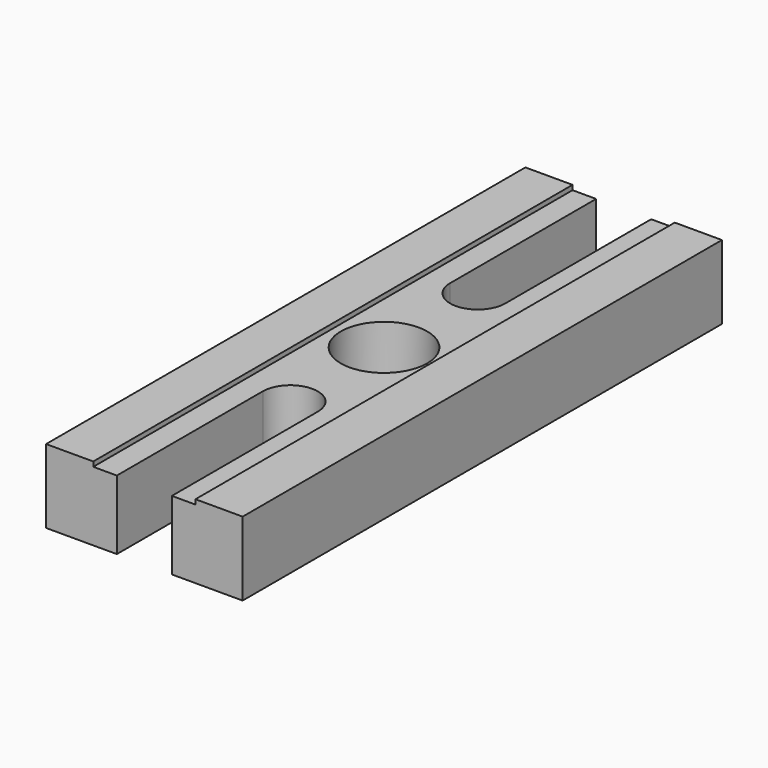
from build123d import *

# Parameters (mm, degrees)
F0_R     = 5.5
F1_DEPTH = 9.4
F0_R_2   = 3
F2_DEPTH = 2.1
F3_R     = 5.5
F4_DEPTH = 0.6


with BuildPart() as f1:
    # F0 (on Top) → F1 (new body)
    with BuildSketch(Plane.XY):
        with BuildLine():
            Line((3.5, -38.1), (12.5, -38.1))
            Line((12.5, -38.1), (12.5, 38.1))
            Line((12.5, 38.1), (3.5, 38.1))
            Line((3.5, 38.1), (3.5, 14.9))
            ThreePointArc((3.5, 14.9), (0, 11.4), (-3.5, 14.9))
            Line((-3.5, 14.9), (-3.5, 38.1))
            Line((-3.5, 38.1), (-12.5, 38.1))
            Line((-12.5, 38.1), (-12.5, -38.1))
            Line((-12.5, -38.1), (-3.5, -38.1))
            Line((-3.5, -38.1), (-3.5, -14.9))
            ThreePointArc((-3.5, -14.9), (0, -11.4), (3.5, -14.9))
            Line((3.5, -14.9), (3.5, -38.1))
        make_face()
        Circle(F0_R, mode=Mode.SUBTRACT)
    extrude(amount=F1_DEPTH)

    # F0 (on Top) → F2 (join)
    with BuildSketch(Plane.XY):
        Circle(F0_R)
        Circle(F0_R_2, mode=Mode.SUBTRACT)
    extrude(amount=F2_DEPTH)

    # F3 (on face) → F4 (cut)
    with BuildSketch(Plane.XY.offset(9.4)):
        with BuildLine():
            Line((6.5, -38.1), (6.5, 38.1))
            Line((6.5, 38.1), (3.5, 38.1))
            Line((3.5, 38.1), (3.5, 14.9))
            ThreePointArc((3.5, 14.9), (0, 11.4), (-3.5, 14.9))
            Line((-3.5, 14.9), (-3.5, 38.1))
            Line((-3.5, 38.1), (-6.5, 38.1))
            Line((-6.5, 38.1), (-6.5, -38.1))
            Line((-6.5, -38.1), (-3.5, -38.1))
            Line((-3.5, -38.1), (-3.5, -14.9))
            ThreePointArc((-3.5, -14.9), (0, -11.4), (3.5, -14.9))
            Line((3.5, -14.9), (3.5, -38.1))
            Line((3.5, -38.1), (6.5, -38.1))
        make_face()
        Circle(F3_R, mode=Mode.SUBTRACT)
    extrude(amount=-F4_DEPTH, mode=Mode.SUBTRACT)


solid = f1.part
